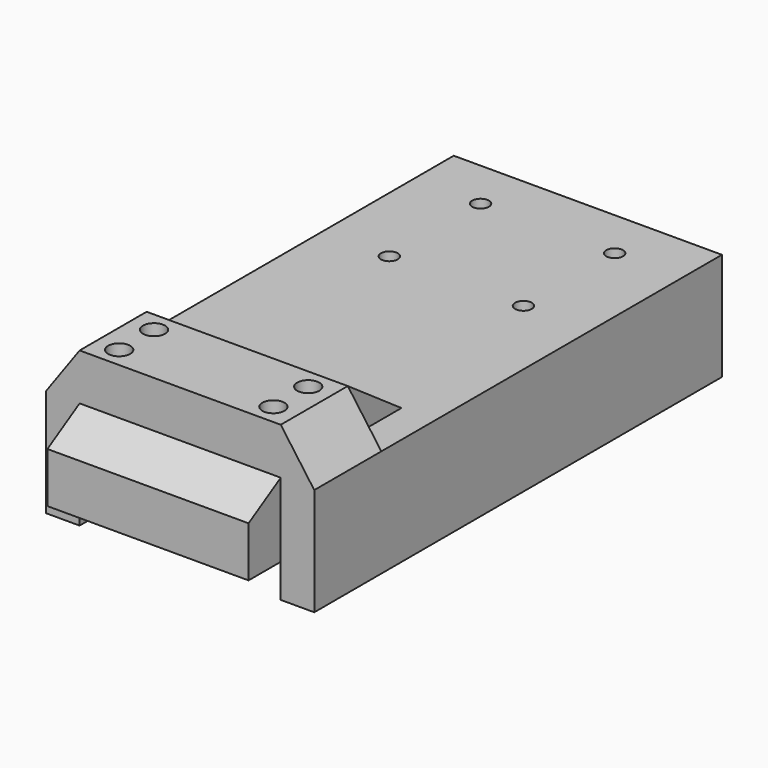
from build123d import *

# Parameters (mm, degrees)
SKETCH_W     = 60
SKETCH_H     = 25
SKETCH_R     = 3.3
PAD_DEPTH    = 36
SKETCH001_W  = 60
SKETCH001_H  = 22.1
PAD001_DEPTH = 127
SKETCH002_R  = 2.5
POCKET_DEPTH = 22.101
PAD002_DEPTH = 60
SKETCH004_W  = 152
SKETCH004_H  = 32.1
PAD003_DEPTH = 10
SKETCH005_W  = 152
SKETCH005_H  = 32.1
PAD004_DEPTH = 10
PAD005_DEPTH = 25
SKETCH007_W  = 60
SKETCH007_H  = 15
PAD006_DEPTH = 12
PAD007_DEPTH = 60


with BuildPart() as part:
    # Sketch → Pad (new body)
    with BuildSketch(Plane.XY):
        Rectangle(SKETCH_W, SKETCH_H)
        with Locations((-23, 6.5)):
            Circle(SKETCH_R, mode=Mode.SUBTRACT)
        with Locations((-23, -6.5)):
            Circle(SKETCH_R, mode=Mode.SUBTRACT)
        with Locations((23, -6.5)):
            Circle(SKETCH_R, mode=Mode.SUBTRACT)
        with Locations((23, 6.5)):
            Circle(SKETCH_R, mode=Mode.SUBTRACT)
    extrude(amount=PAD_DEPTH)

    # Sketch001 (on Face1 of Pad) → Pad001 (join)
    with BuildSketch(Plane(origin=(0, 12.5, 0), x_dir=(-1, 0, 0), z_dir=(0, 1, 0))):
        with Locations((0, 11.05)):
            Rectangle(SKETCH001_W, SKETCH001_H)
    extrude(amount=PAD001_DEPTH)

    # Sketch002 (on Face2 of Pad001) → Pocket (cut, through all)
    with BuildSketch(Plane.XY.offset(22.1)):
        with Locations((-20, 124.5)):
            Circle(SKETCH002_R)
        with Locations((20, 124.5)):
            Circle(SKETCH002_R)
        with Locations((-20, 90.5)):
            Circle(SKETCH002_R)
        with Locations((20, 90.5)):
            Circle(SKETCH002_R)
    extrude(amount=-POCKET_DEPTH, mode=Mode.SUBTRACT)

    # Sketch003 (on Face6 of Pocket) → Pad002 (join)
    with BuildSketch(Plane.YZ.offset(30)):
        Polygon((12.5, 36), (32.5, 22.1), (12.5, 0), align=None)
    extrude(amount=-PAD002_DEPTH)

    # Sketch004 (on Face7 of Pad002) → Pad003 (join)
    with BuildSketch(Plane.YZ.offset(30)):
        with Locations((63.5, 6.05)):
            Rectangle(SKETCH004_W, SKETCH004_H)
    extrude(amount=PAD003_DEPTH)

    # Sketch005 (on Face20 of Pad003) → Pad004 (join)
    with BuildSketch(Plane(origin=(-30, 0, 0), x_dir=(0, -1, 0), z_dir=(-1, 0, 0))):
        with Locations((-63.5, 6.05)):
            Rectangle(SKETCH005_W, SKETCH005_H)
    extrude(amount=PAD004_DEPTH)

    # Sketch006 (on Face3 of Pad004) → Pad005 (join)
    with BuildSketch(Plane.XZ.offset(12.5)):
        Polygon((40, 22.1), (30, 22.1), (30, 36), align=None)
        Polygon((-30, 36), (-30, 22.1), (-40, 22.1), align=None)
    extrude(amount=-PAD005_DEPTH)

    # Sketch007 (on Face25 of Pad005) → Pad006 (join)
    with BuildSketch(Plane.XZ.offset(12.5)):
        with Locations((0, 7.5)):
            Rectangle(SKETCH007_W, SKETCH007_H)
    extrude(amount=PAD006_DEPTH)

    # Sketch008 (on Face40 of Pad006) → Pad007 (join)
    with BuildSketch(Plane(origin=(-30, 0, 0), x_dir=(0, -1, 0), z_dir=(-1, 0, 0))):
        Polygon((24.5, 15), (12.5, 15), (12.5, 22.1), align=None)
    extrude(amount=-PAD007_DEPTH)


solid = part.part
